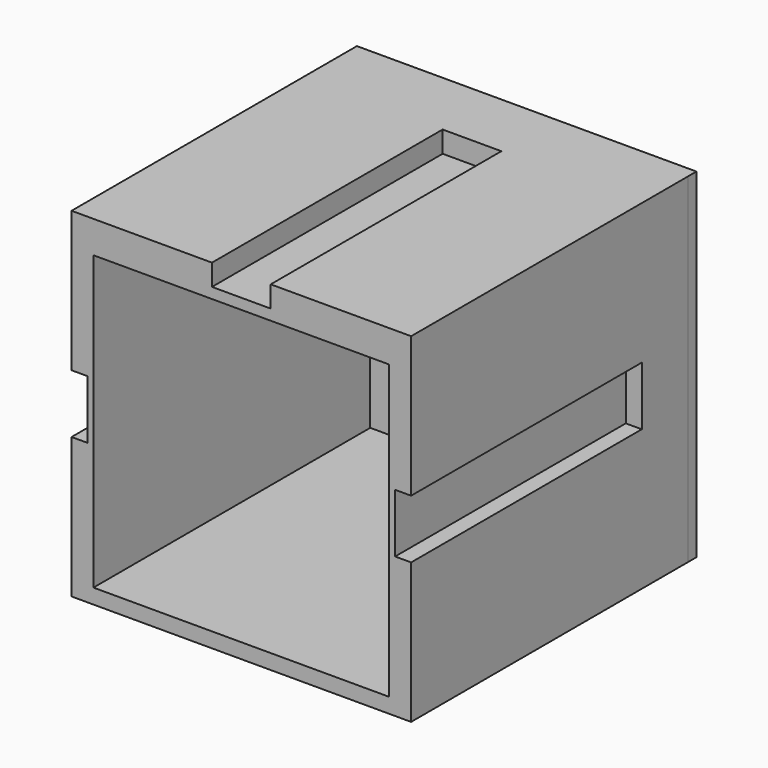
from build123d import *

# Parameters (mm, degrees)
SKETCH013_W     = 31.8
SKETCH013_H     = 31.8
SKETCH013_R     = 1.75
SKETCH013_W_2   = 27.700439
SKETCH013_H_2   = 2
PAD005_DEPTH    = 1
SKETCH014_W     = 31.8
SKETCH014_H     = 31.8
SKETCH014_W_2   = 27.700439
SKETCH014_H_2   = 27.4
PAD006_DEPTH    = 32.4
SKETCH024_W     = 5.5
SKETCH024_H     = 27
POCKET010_DEPTH = 2
SKETCH025_W     = 27
SKETCH025_H     = 5.5
POCKET011_DEPTH = 1.5
SKETCH026_W     = 27
SKETCH026_H     = 5.5
POCKET012_DEPTH = 1.5


with BuildPart() as part:
    # Sketch013 (on Face2 of Binder003) → Pad005 (new body)
    with BuildSketch(Plane.XZ.offset(-33.95)):
        with Locations((13.749781, 0.8)):
            Rectangle(SKETCH013_W, SKETCH013_H)
        with Locations((5.24978, 9.3)):
            Circle(SKETCH013_R, mode=Mode.SUBTRACT)
        with Locations((22.24978, 9.3)):
            Circle(SKETCH013_R, mode=Mode.SUBTRACT)
        with Locations((22.24978, -7.7)):
            Circle(SKETCH013_R, mode=Mode.SUBTRACT)
        with Locations((5.24978, -7.7)):
            Circle(SKETCH013_R, mode=Mode.SUBTRACT)
        with Locations((13.74978, 0.8)):
            Rectangle(SKETCH013_W_2, SKETCH013_H_2, mode=Mode.SUBTRACT)
    extrude(amount=PAD005_DEPTH)

    # Sketch014 (on Face14 of Pad005) → Pad006 (join)
    with BuildSketch(Plane.XZ.offset(-32.95)):
        with Locations((13.74978, 0.8)):
            Rectangle(SKETCH014_W, SKETCH014_H)
        with Locations((13.74978, 0)):
            Rectangle(SKETCH014_W_2, SKETCH014_H_2, mode=Mode.SUBTRACT)
    extrude(amount=PAD006_DEPTH)

    # Sketch024 (on Face14 of Pad006) → Pocket010 (cut)
    with BuildSketch(Plane.XY.offset(16.7)):
        with Locations((13.74978, 14.05)):
            Rectangle(SKETCH024_W, SKETCH024_H)
    extrude(amount=-POCKET010_DEPTH, mode=Mode.SUBTRACT)

    # Sketch025 (on Face2 of Pocket010) → Pocket011 (cut)
    with BuildSketch(Plane(origin=(-2.15022, 0, 0), x_dir=(0, -1, 0), z_dir=(-1, 0, 0))):
        with Locations((-14.05, 0.8)):
            Rectangle(SKETCH025_W, SKETCH025_H)
    extrude(amount=-POCKET011_DEPTH, mode=Mode.SUBTRACT)

    # Sketch026 (on Face4 of Pocket011) → Pocket012 (cut)
    with BuildSketch(Plane.YZ.offset(29.64978)):
        with Locations((14.05, 0.8)):
            Rectangle(SKETCH026_W, SKETCH026_H)
    extrude(amount=-POCKET012_DEPTH, mode=Mode.SUBTRACT)


solid = part.part
